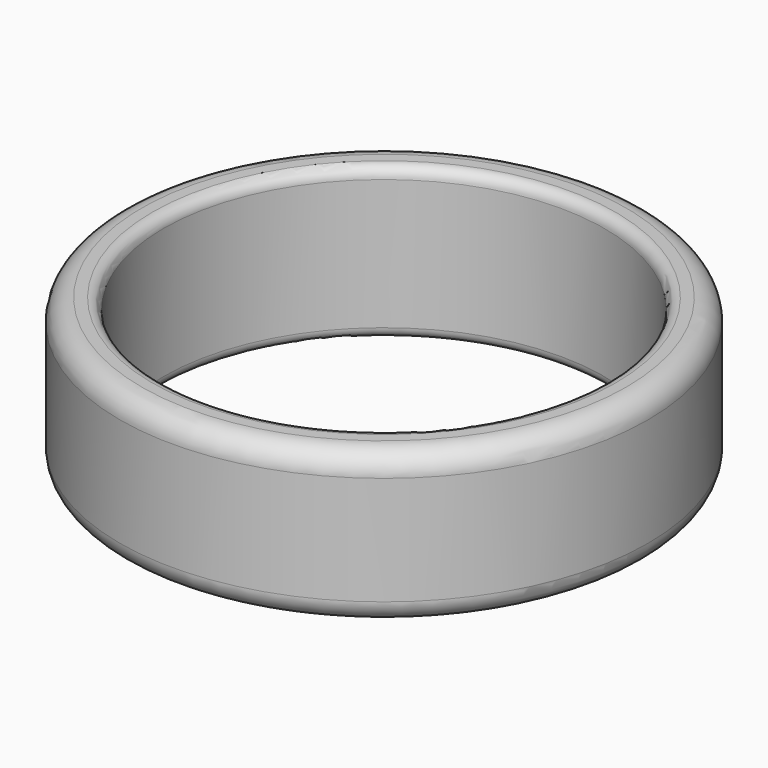
from build123d import *


with BuildPart() as f1:
    # F0 (on Front) → F1 (revolve)
    with BuildSketch(Plane.XZ):
        with BuildLine():
            Line((11.15, 3.5), (10.65, 3.5))
            ThreePointArc((10.65, 3.5), (10.296447, 3.353553), (10.15, 3))
            Line((10.15, 3), (10.15, 0))
            Line((10.15, 0), (10.15, -3))
            ThreePointArc((10.15, -3), (10.296447, -3.353553), (10.65, -3.5))
            Line((10.65, -3.5), (11.15, -3.5))
            ThreePointArc((11.15, -3.5), (11.857107, -3.207107), (12.15, -2.5))
            Line((12.15, -2.5), (12.15, 0))
            Line((12.15, 0), (12.15, 2.5))
            ThreePointArc((12.15, 2.5), (11.857107, 3.207107), (11.15, 3.5))
        make_face()
    revolve(axis=Axis((0, 0, 2.814216), (0, 0, 1)))


solid = f1.part
